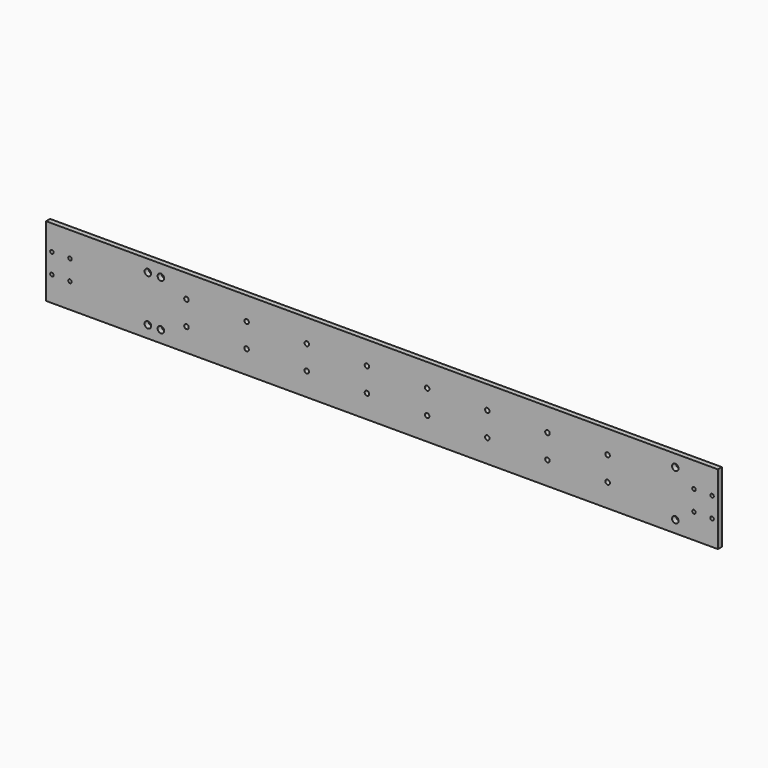
from build123d import *

# Parameters (mm, degrees)
F0_W     = 670
F0_H     = 70
F1_DEPTH = 5
F2_R     = 1.75
F3_DEPTH = 5
F4_R     = 3.25
F5_DEPTH = 5
F6_R     = 2.25
F7_DEPTH = 5


with BuildPart() as f1:
    # F0 (on Front) → F1 (new body)
    with BuildSketch(Plane.XZ):
        Rectangle(F0_W, F0_H)
    extrude(amount=F1_DEPTH)

    # F2 (on face) → F3 (cut, through all)
    with BuildSketch(Plane.XZ.offset(5)):
        with Locations((-329.15, 10)):
            Circle(F2_R)
        with Locations((-311.15, 10)):
            Circle(F2_R)
        with Locations((-329.15, -10)):
            Circle(F2_R)
        with Locations((-311.15, -10)):
            Circle(F2_R)
        with Locations((329.15, 10)):
            Circle(F2_R)
        with Locations((311.15, 10)):
            Circle(F2_R)
        with Locations((311.15, -10)):
            Circle(F2_R)
        with Locations((329.15, -10)):
            Circle(F2_R)
    extrude(amount=-F3_DEPTH, mode=Mode.SUBTRACT)

    # F4 (on face) → F5 (cut, through all)
    with BuildSketch(Plane.XZ.offset(5)):
        with Locations((292.5, 23)):
            Circle(F4_R)
        with Locations((292.5, -23)):
            Circle(F4_R)
        with Locations((-233.5, 23)):
            Circle(F4_R)
        with Locations((-220.5, 23)):
            Circle(F4_R)
        with Locations((-220.5, -23)):
            Circle(F4_R)
        with Locations((-233.5, -23)):
            Circle(F4_R)
    extrude(amount=-F5_DEPTH, mode=Mode.SUBTRACT)

    # F6 (on Front) → F7 (cut, through all)
    with BuildSketch(Plane.XZ):
        with Locations((-15, 12)):
            Circle(F6_R)
        with Locations((-75, 12)):
            Circle(F6_R)
        with Locations((-135, 12)):
            Circle(F6_R)
        with Locations((-195, 12)):
            Circle(F6_R)
        with Locations((225, 12)):
            Circle(F6_R)
        with Locations((165, 12)):
            Circle(F6_R)
        with Locations((105, 12)):
            Circle(F6_R)
        with Locations((45, 12)):
            Circle(F6_R)
        with Locations((-195, -12)):
            Circle(F6_R)
        with Locations((-135, -12)):
            Circle(F6_R)
        with Locations((-75, -12)):
            Circle(F6_R)
        with Locations((-15, -12)):
            Circle(F6_R)
        with Locations((45, -12)):
            Circle(F6_R)
        with Locations((105, -12)):
            Circle(F6_R)
        with Locations((165, -12)):
            Circle(F6_R)
        with Locations((225, -12)):
            Circle(F6_R)
    extrude(amount=F7_DEPTH, mode=Mode.SUBTRACT)


solid = f1.part
